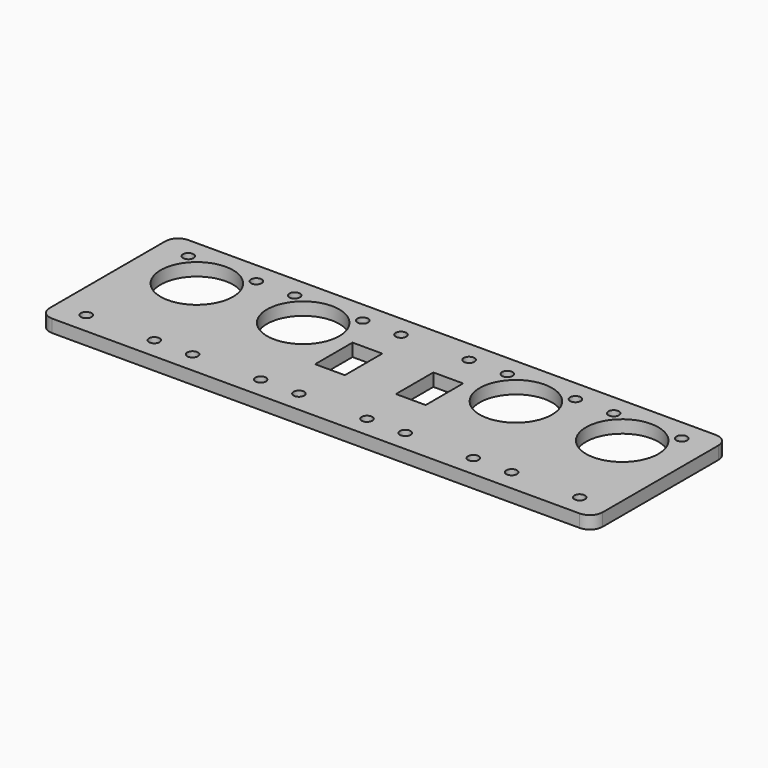
from build123d import *

# Parameters (mm, degrees)
SKETCH_W        = 130
SKETCH_H        = 40
SKETCH_R        = 8.5
PAD_DEPTH       = 3
SKETCH001_R     = 1.25
POCKET_DEPTH    = 5
SKETCH002_W     = 7
SKETCH002_H     = 11
POCKET001_DEPTH = 5
POCKET002_DEPTH = 5


with BuildPart() as part:
    # Sketch → Pad (new body)
    with BuildSketch(Plane.XY):
        with Locations((65, 20)):
            Rectangle(SKETCH_W, SKETCH_H)
        with Locations((40, 27.5)):
            Circle(SKETCH_R, mode=Mode.SUBTRACT)
        with Locations((90, 27.5)):
            Circle(SKETCH_R, mode=Mode.SUBTRACT)
        with Locations((15, 27.5)):
            Circle(SKETCH_R, mode=Mode.SUBTRACT)
        with Locations((115, 27.5)):
            Circle(SKETCH_R, mode=Mode.SUBTRACT)
    extrude(amount=PAD_DEPTH)

    # Sketch001 (on Face10 of Pad) → Pocket (cut)
    with BuildSketch(Plane.XY.offset(3)):
        with Locations((7, 35)):
            Circle(SKETCH001_R)
        with Locations((23, 35)):
            Circle(SKETCH001_R)
        with Locations((23, 5)):
            Circle(SKETCH001_R)
        with Locations((7, 5)):
            Circle(SKETCH001_R)
        with Locations((107, 35)):
            Circle(SKETCH001_R)
        with Locations((123, 35)):
            Circle(SKETCH001_R)
        with Locations((123, 5)):
            Circle(SKETCH001_R)
        with Locations((107, 5)):
            Circle(SKETCH001_R)
        with Locations((57, 35)):
            Circle(SKETCH001_R)
        with Locations((73, 35)):
            Circle(SKETCH001_R)
        with Locations((57, 5)):
            Circle(SKETCH001_R)
        with Locations((73, 5)):
            Circle(SKETCH001_R)
        with Locations((32, 35)):
            Circle(SKETCH001_R)
        with Locations((48, 35)):
            Circle(SKETCH001_R)
        with Locations((32, 5)):
            Circle(SKETCH001_R)
        with Locations((48, 5)):
            Circle(SKETCH001_R)
        with Locations((82, 35)):
            Circle(SKETCH001_R)
        with Locations((98, 35)):
            Circle(SKETCH001_R)
        with Locations((98, 5)):
            Circle(SKETCH001_R)
        with Locations((82, 5)):
            Circle(SKETCH001_R)
    extrude(amount=-POCKET_DEPTH, mode=Mode.SUBTRACT)

    # Sketch002 (on Face5 of Pocket) → Pocket001 (cut)
    with BuildSketch(Plane.XY.offset(3)):
        with Locations((74.5, 21.5)):
            Rectangle(SKETCH002_W, SKETCH002_H)
        with Locations((55.5, 21.5)):
            Rectangle(SKETCH002_W, SKETCH002_H)
    extrude(amount=-POCKET001_DEPTH, mode=Mode.SUBTRACT)

    # Sketch003 (on Face5 of Pocket001) → Pocket002 (cut)
    with BuildSketch(Plane.XY.offset(3)):
        with BuildLine():
            ThreePointArc((3, 40), (0.87868, 39.12132), (0, 37))
            Line((0, 37), (-3, 37))
            Line((-3, 43), (-3, 37))
            Line((3, 43), (-3, 43))
            Line((3, 40), (3, 43))
        make_face()
        with BuildLine():
            ThreePointArc((0, 3), (0.87868, 0.87868), (3, 0))
            Line((3, 0), (3, -3))
            Line((3, -3), (-3, -3))
            Line((-3, -3), (-3, 3))
            Line((0, 3), (-3, 3))
        make_face()
        with BuildLine():
            ThreePointArc((127, 0), (129.12132, 0.87868), (130, 3))
            Line((130, 3), (133, 3))
            Line((133, 3), (133, -3))
            Line((127, -3), (133, -3))
            Line((127, 0), (127, -3))
        make_face()
        with BuildLine():
            ThreePointArc((130, 37), (129.12132, 39.12132), (127, 40))
            Line((127, 40), (127, 43))
            Line((127, 43), (133, 43))
            Line((133, 37), (133, 43))
            Line((130, 37), (133, 37))
        make_face()
    extrude(amount=-POCKET002_DEPTH, mode=Mode.SUBTRACT)


solid = part.part
